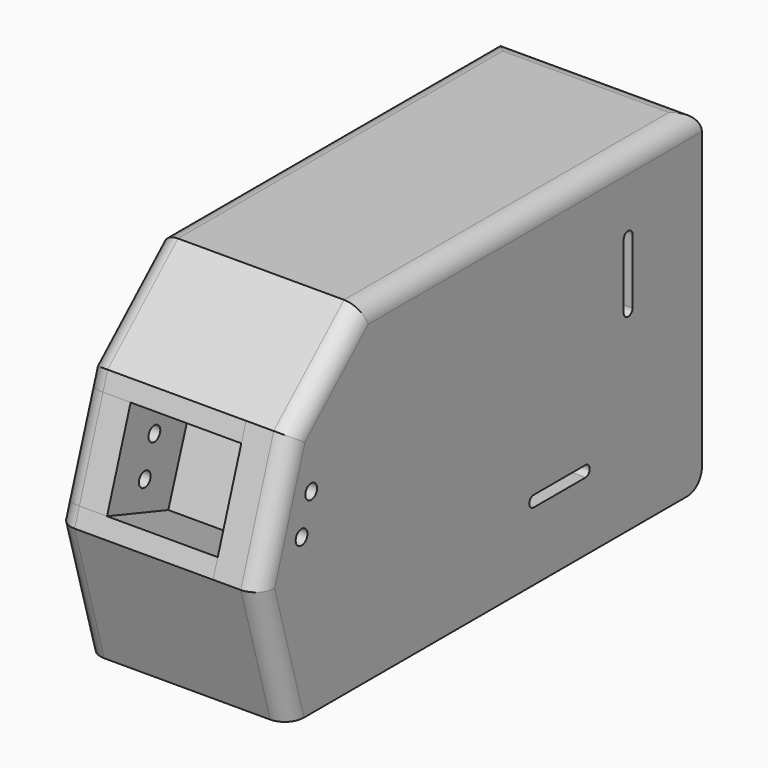
from build123d import *

# Parameters (mm, degrees)
F1_DEPTH = 30
F2_R     = 4
F3_DEPTH = 25
F5_DEPTH = 25
F6_R     = 10
F7_D     = 8


with BuildPart() as f1:
    # F0 (on Right) → F1 (new body, symmetric)
    with BuildSketch(Plane.YZ):
        Polygon((-89.018595, 22.871135), (-105.332031, -24.392718), (-146.828609, -10.51621), (-150, -20), (-130, -90), (-81.489667, -90), (-29.716161, 60), (-24.538811, 75), (-19.36146, 90), (-80, 90), (-127.665719, 46.788867), (-130.83711, 37.305077), align=None)
        Polygon((150, 90), (-19.36146, 90), (-24.538811, 75), (-29.716161, 60), (150, 60), align=None)
    extrude(amount=F1_DEPTH, both=True)

    # F2 (on face) → F3 (join)
    with BuildSketch(Plane.YZ.offset(30)):
        Polygon((-80, 90), (-127.665719, 46.788867), (-150, -20), (-130, -90), (150, -90), (150, 90), align=None)
        with Locations((-121.254994, -3.25178)):
            Circle(F2_R, mode=Mode.SUBTRACT)
        with BuildLine():
            Line((71, -53), (36, -53))
            ThreePointArc((36, -53), (33, -50), (36, -47))
            Line((36, -47), (71, -47))
            ThreePointArc((71, -47), (74, -50), (71, -53))
        make_face(mode=Mode.SUBTRACT)
        with Locations((-114.753178, 15.885422)):
            Circle(F2_R, mode=Mode.SUBTRACT)
        with BuildLine():
            Line((103, 50), (103, 15))
            ThreePointArc((103, 15), (100, 12), (97, 15))
            Line((97, 15), (97, 50))
            ThreePointArc((97, 50), (100, 53), (103, 50))
        make_face(mode=Mode.SUBTRACT)
    extrude(amount=F3_DEPTH)

    # F4 (on face) → F5 (join)
    with BuildSketch(Plane(origin=(-30, 0, 0), x_dir=(0, -1, 0), z_dir=(-1, 0, 0))):
        Polygon((29.716161, 60), (-150, 60), (-150, -90), (81.489667, -90), align=None)
        with BuildLine():
            Line((-71, -47), (-36, -47))
            ThreePointArc((-36, -47), (-33, -50), (-36, -53))
            Line((-36, -53), (-71, -53))
            ThreePointArc((-71, -53), (-74, -50), (-71, -47))
        make_face(mode=Mode.SUBTRACT)
        with BuildLine():
            ThreePointArc((-97, 15), (-100, 12), (-103, 15))
            Line((-103, 15), (-103, 50))
            ThreePointArc((-103, 50), (-100, 53), (-97, 50))
            Line((-97, 50), (-97, 15))
        make_face(mode=Mode.SUBTRACT)
        Polygon((130.83711, 37.305077), (127.665719, 46.788867), (80, 90), (-150, 90), (-150, 60), (29.716161, 60), (81.489667, -90), (130, -90), (150, -20), (146.828609, -10.51621), (105.332031, -24.392718), (89.018595, 22.871135), align=None)
        Polygon((146.828609, -10.51621), (130.83711, 37.305077), (89.018595, 22.871135), (105.332031, -24.392718), align=None)
    extrude(amount=F5_DEPTH)

    # F6
    f6_edges = [f1.edges().sort_by_distance(p)[0] for p in [
        (55, 35, 90),
        (55, -103.832859, 68.394433),
        (55, -140, -55),
        (-55, -140, -55),
        (-55, -103.832859, 68.394433),
        (-55, 35, 90),
        (0, 150, 90),
        (-42.5, 150, -90),
        (42.5, 150, -90),
        (-55, -138.832859, 13.394433),
        (55, -138.832859, 13.394433),
    ]]
    fillet(f6_edges, radius=F6_R)

    # F7 (through all)
    with Locations(Plane.YZ.offset(30)):
        with Locations((-114.753178, 15.885422), (-121.254994, -3.25178)):
            Hole(F7_D / 2)


solid = f1.part
